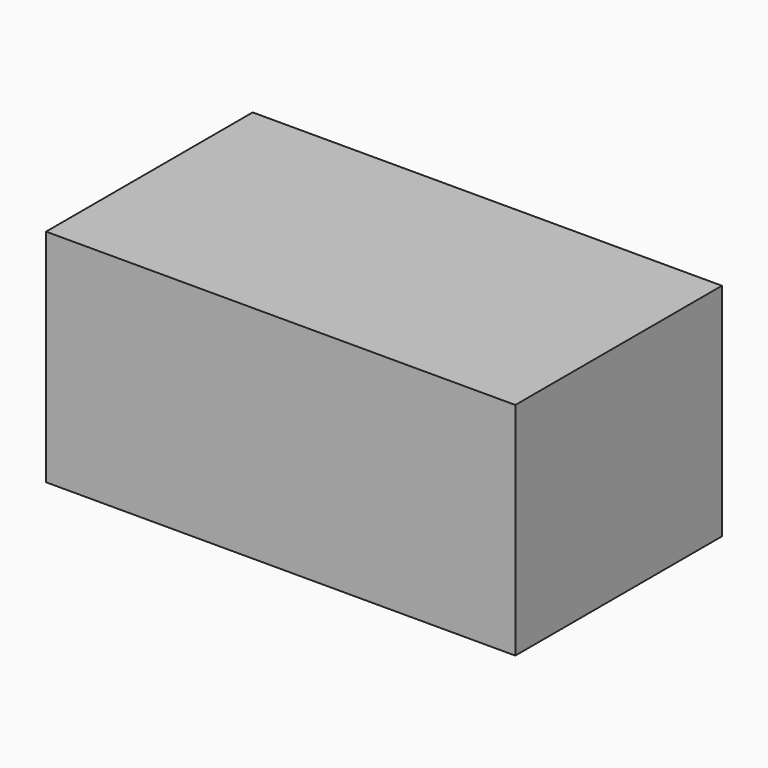
from build123d import *

# Parameters (mm, degrees)
F0_W     = 27.256459
F0_H     = 25.635824
F1_DEPTH = 30


with BuildPart() as f1:
    # F0 (on Front) → F1 (new body)
    with BuildSketch(Plane.XZ):
        with Locations((13.628229, 12.817912)):
            Rectangle(F0_W, F0_H)
    extrude(amount=F1_DEPTH)

    # F2: F1 across plane


with BuildPart() as f1_1:
    add(f1.part)
    add(f1.part.mirror(Plane.YZ))


solid = f1_1.part
